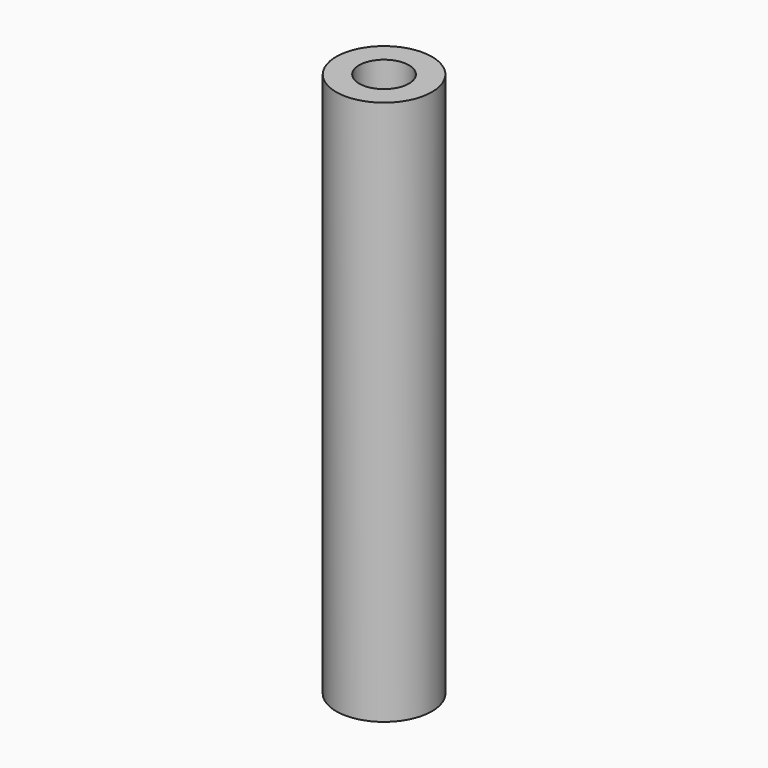
from build123d import *

# Parameters (mm, degrees)
SKETCH_R   = 3.075
SKETCH_R_2 = 1.6
PAD_DEPTH  = 35


with BuildPart() as part:
    # Sketch → Pad (new body)
    with BuildSketch(Plane.XY):
        Circle(SKETCH_R)
        Circle(SKETCH_R_2, mode=Mode.SUBTRACT)
    extrude(amount=PAD_DEPTH)


solid = part.part
